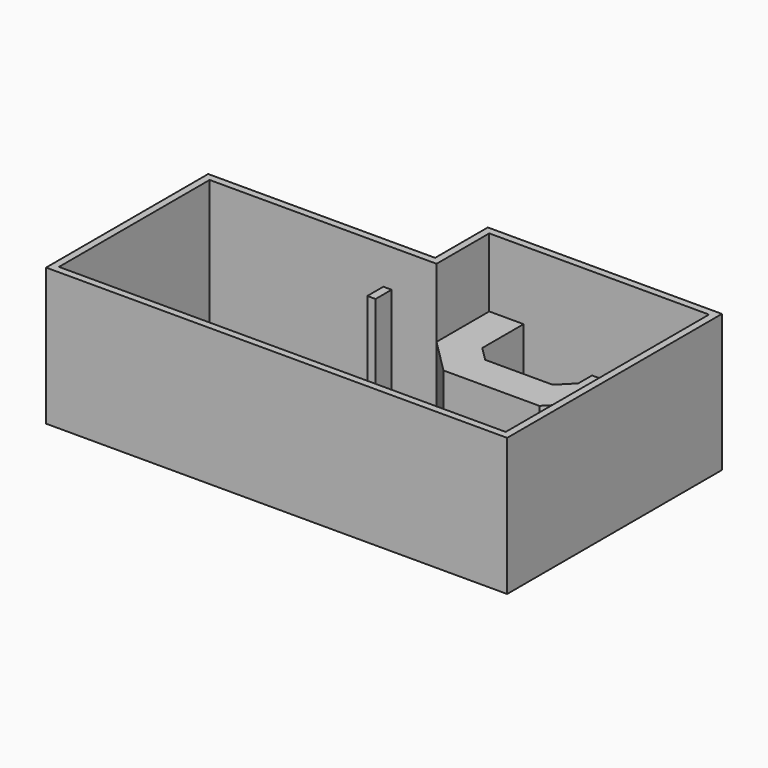
from build123d import *

# Parameters (mm, degrees)
F1_DEPTH = 2438.4
F0_W     = 146.05
F0_H     = 355.6
F2_DEPTH = 25.4
F3_DEPTH = 2438.4
F5_DEPTH = 1219.2


with BuildPart() as f1:
    # F0 (on Top) → F1 (new body)
    with BuildSketch(Plane.XY):
        Polygon((4089.4, 2381.25), (-63.5, 2381.25), (-63.5, 1212.85), (-4089.4, 1212.85), (-4089.4, -2381.25), (4089.4, -2381.25), align=None)
        Polygon((63.5, 2254.25), (3962.4, 2254.25), (3962.4, -2254.25), (-3962.4, -2254.25), (-3962.4, 1085.85), (63.5, 1085.85), align=None, mode=Mode.SUBTRACT)
    extrude(amount=F1_DEPTH)

    # F0 (on Top) → F2 (join)
    with BuildSketch(Plane.XY):
        Polygon((3962.4, -2254.25), (3962.4, 2254.25), (63.5, 2254.25), (63.5, 1085.85), (-3962.4, 1085.85), (-3962.4, -2254.25), align=None)
        with Locations((-9.525, -88.9)):
            Rectangle(F0_W, F0_H, mode=Mode.SUBTRACT)
    extrude(amount=-F2_DEPTH)


with BuildPart() as f3:
    # F0 (on Top) → F3 (new body)
    with BuildSketch(Plane.XY):
        with Locations((-9.525, -88.9)):
            Rectangle(F0_W, F0_H)
    extrude(amount=F3_DEPTH)


with BuildPart() as f5:
    # F4 (on face) → F5 (new body)
    with BuildSketch(Plane.XY):
        Polygon((63.5, 2254.25), (63.5, 1085.85), (673.1, 476.25), (2374.9, 476.25), (2984.5, 1085.85), (2984.5, 1644.65), (2374.9, 1644.65), (2374.9, 1338.354588), (2122.395412, 1085.85), (925.604588, 1085.85), (673.1, 1338.354588), (673.1, 2254.25), align=None)
    extrude(amount=F5_DEPTH)


solid = Compound([f1.part, f3.part, f5.part])
